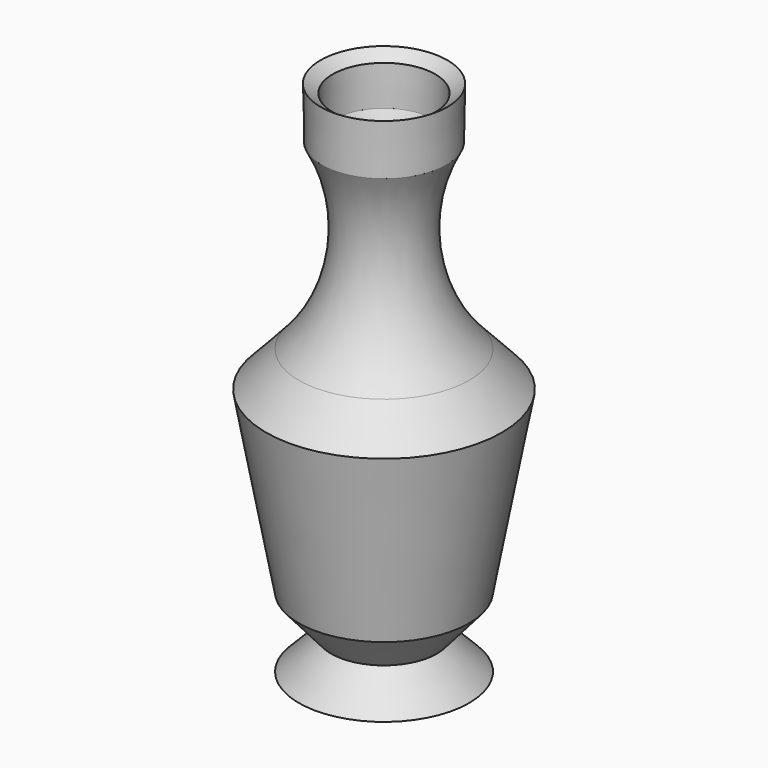
from build123d import *

# Parameters (mm, degrees)
F2_T = -2.54


with BuildPart() as f1:
    # F0 (on Front) → F1 (revolve)
    with BuildSketch(Plane.XZ):
        with BuildLine():
            Line((13.4579045698, 55.6751601398), (0, 46.2730638683))
            Line((0, 46.2730638683), (0, -54.2003251612))
            Line((0, -54.2003251612), (18.0667731911, -54.2003251612))
            Line((18.0667731911, -54.2003251612), (11.2456455827, -47.1948385239))
            Line((11.2456455827, -47.1948385239), (18.0667731911, -39.297287833))
            Line((18.0667731911, -39.297287833), (25.0197400727, -1.409296363))
            Line((25.0197400727, -1.409296363), (18.0667731911, 6.0837096535))
            ThreePointArc((18.0667731911, 6.0837096535), (9.4177041761, 24.6668557218), (13.2735474035, 44.7982288897))
            Line((13.2735474035, 44.7982288897), (13.4579045698, 55.6751601398))
        make_face()
        with BuildLine():
            Line((13.4579045698, 55.6751601398), (0, 46.2730638683))
            Line((0, 46.2730638683), (0, -54.2003251612))
            Line((0, -54.2003251612), (18.0667731911, -54.2003251612))
            Line((18.0667731911, -54.2003251612), (11.2456455827, -47.1948385239))
            Line((11.2456455827, -47.1948385239), (18.0667731911, -39.297287833))
            Line((18.0667731911, -39.297287833), (25.0197400727, -1.409296363))
            Line((25.0197400727, -1.409296363), (18.0667731911, 6.0837096535))
            ThreePointArc((18.0667731911, 6.0837096535), (9.4177041761, 24.6668557218), (13.2735474035, 44.7982288897))
            Line((13.2735474035, 44.7982288897), (13.4579045698, 55.6751601398))
        make_face()
    revolve(axis=Axis((0, 0, -3.9636306465), (0, 0, -1)))

    # F2
    f2_openings = [f1.faces().sort_by_distance(p)[0] for p in [
        (-6.728952, 0, 50.974112),
    ]]
    offset(amount=F2_T, openings=f2_openings, kind=Kind.INTERSECTION)


solid = f1.part
